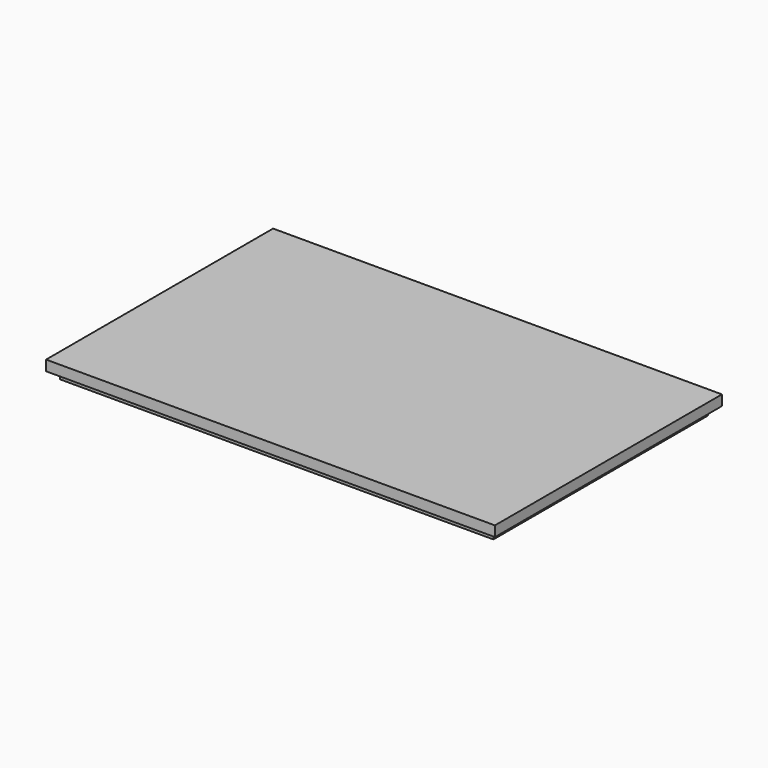
from build123d import *

# Parameters (mm, degrees)
F0_W     = 174
F0_H     = 110
F1_DEPTH = 4
F2_W     = 3
F2_H     = 5
F2_H_2   = 94
F3_DEPTH = 3


with BuildPart() as f1:
    # F0 (on Top) → F1 (new body)
    with BuildSketch(Plane.XY):
        Rectangle(F0_W, F0_H)
    extrude(amount=F1_DEPTH)

    # F2 (on face) → F3 (join)
    with BuildSketch(Plane(origin=(0, 0, 0), x_dir=(1, 0, 0), z_dir=(0, 0, -1))):
        with Locations((-82.5, -49.5)):
            Rectangle(F2_W, F2_H)
        Polygon((-81, -47), (-81, -52), (84, -52), (84, 52), (-81, 52), (-81, 47), (79, 47), (79, -47), align=None)
        with Locations((-82.5, 0)):
            Rectangle(F2_W, F2_H_2)
        with Locations((-82.5, 49.5)):
            Rectangle(F2_W, F2_H)
    extrude(amount=F3_DEPTH)


solid = f1.part
